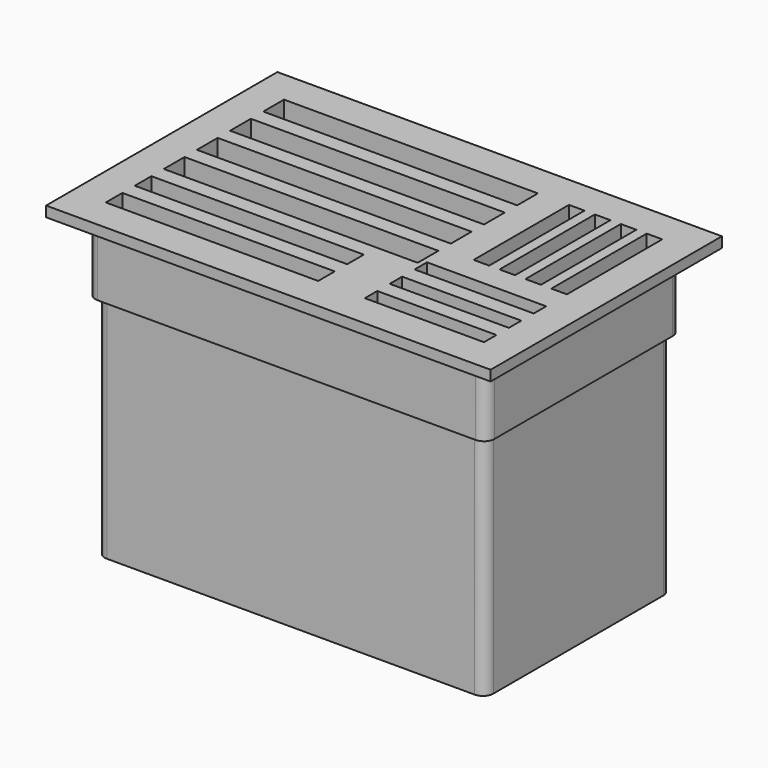
from build123d import *

# Parameters (mm, degrees)
BOX003_W     = 20.5
BOX003_H     = 2
BOX003_DEPTH = 22
BOX002_W     = 24.5
BOX002_H     = 2.5
BOX002_DEPTH = 32
BOX019_W     = 24.5
BOX019_H     = 2.5
BOX019_DEPTH = 32
BOX020_W     = 24.5
BOX020_H     = 2.5
BOX020_DEPTH = 32
BOX021_W     = 24.5
BOX021_H     = 2.5
BOX021_DEPTH = 32
BOX022_W     = 20.5
BOX022_H     = 2
BOX022_DEPTH = 22
BOX023_W     = 11.5
BOX023_H     = 1.5
BOX023_DEPTH = 15
BOX024_W     = 11.5
BOX024_H     = 1.5
BOX024_DEPTH = 15
BOX025_W     = 11.5
BOX025_H     = 1.5
BOX025_DEPTH = 15
BOX026_W     = 11.5
BOX026_H     = 1.5
BOX026_DEPTH = 15
BOX027_W     = 11.5
BOX027_H     = 1.5
BOX027_DEPTH = 15
BOX028_W     = 11.5
BOX028_H     = 1.5
BOX028_DEPTH = 15
BOX004_W     = 11.5
BOX004_H     = 1.5
BOX004_DEPTH = 15
BOX_W        = 38.5
BOX_H        = 23.5
BOX_DEPTH    = 7.9
FILLET_R     = 1
BOX001_W     = 42.9
BOX001_H     = 27.9
BOX001_DEPTH = 1
BOX029_W     = 37.5
BOX029_H     = 22.5
BOX029_DEPTH = 21.9
FILLET001_R  = 1


with BuildPart() as mini_sd:
    # Box003 → Box003 (new body)
    with BuildSketch(Plane(origin=(1.2, 1.2, 20), x_dir=(1, 0, 0), z_dir=(0, 0, 1))):
        with Locations((10.25, 1)):
            Rectangle(BOX003_W, BOX003_H)
    extrude(amount=BOX003_DEPTH)


with BuildPart() as sd:
    # Box002 → Box002 (new body)
    with BuildSketch(Plane(origin=(1.2, 20.2, 10), x_dir=(1, 0, 0), z_dir=(0, 0, 1))):
        with Locations((12.25, 1.25)):
            Rectangle(BOX002_W, BOX002_H)
    extrude(amount=BOX002_DEPTH)


with BuildPart() as sd001:
    # Box019 → Box019 (new body)
    with BuildSketch(Plane(origin=(1.2, 16.2, 10), x_dir=(1, 0, 0), z_dir=(0, 0, 1))):
        with Locations((12.25, 1.25)):
            Rectangle(BOX019_W, BOX019_H)
    extrude(amount=BOX019_DEPTH)


with BuildPart() as sd002:
    # Box020 → Box020 (new body)
    with BuildSketch(Plane(origin=(1.2, 12.2, 10), x_dir=(1, 0, 0), z_dir=(0, 0, 1))):
        with Locations((12.25, 1.25)):
            Rectangle(BOX020_W, BOX020_H)
    extrude(amount=BOX020_DEPTH)


with BuildPart() as sd003:
    # Box021 → Box021 (new body)
    with BuildSketch(Plane(origin=(1.2, 8.2, 10), x_dir=(1, 0, 0), z_dir=(0, 0, 1))):
        with Locations((12.25, 1.25)):
            Rectangle(BOX021_W, BOX021_H)
    extrude(amount=BOX021_DEPTH)


with BuildPart() as mini_sd001:
    # Box022 → Box022 (new body)
    with BuildSketch(Plane(origin=(1.2, 4.7, 20), x_dir=(1, 0, 0), z_dir=(0, 0, 1))):
        with Locations((10.25, 1)):
            Rectangle(BOX022_W, BOX022_H)
    extrude(amount=BOX022_DEPTH)


with BuildPart() as micro_sd001:
    # Box023 → Box023 (new body)
    with BuildSketch(Plane(origin=(33.7, 22.7, 26.9), x_dir=(0, -1, 0), z_dir=(0, 0, 1))):
        with Locations((5.75, 0.75)):
            Rectangle(BOX023_W, BOX023_H)
    extrude(amount=BOX023_DEPTH)


with BuildPart() as micro_sd002:
    # Box024 → Box024 (new body)
    with BuildSketch(Plane(origin=(31.2, 22.7, 26.9), x_dir=(0, -1, 0), z_dir=(0, 0, 1))):
        with Locations((5.75, 0.75)):
            Rectangle(BOX024_W, BOX024_H)
    extrude(amount=BOX024_DEPTH)


with BuildPart() as micro_sd003:
    # Box025 → Box025 (new body)
    with BuildSketch(Plane(origin=(37.7, 2.7, 26.9), x_dir=(-1, 0, 0), z_dir=(0, 0, 1))):
        with Locations((5.75, 0.75)):
            Rectangle(BOX025_W, BOX025_H)
    extrude(amount=BOX025_DEPTH)


with BuildPart() as micro_sd004:
    # Box026 → Box026 (new body)
    with BuildSketch(Plane(origin=(37.7, 5.7, 26.9), x_dir=(-1, 0, 0), z_dir=(0, 0, 1))):
        with Locations((5.75, 0.75)):
            Rectangle(BOX026_W, BOX026_H)
    extrude(amount=BOX026_DEPTH)


with BuildPart() as micro_sd005:
    # Box027 → Box027 (new body)
    with BuildSketch(Plane(origin=(37.7, 8.7, 26.9), x_dir=(-1, 0, 0), z_dir=(0, 0, 1))):
        with Locations((5.75, 0.75)):
            Rectangle(BOX027_W, BOX027_H)
    extrude(amount=BOX027_DEPTH)


with BuildPart() as micro_sd006:
    # Box028 → Box028 (new body)
    with BuildSketch(Plane(origin=(28.7, 22.7, 26.9), x_dir=(0, -1, 0), z_dir=(0, 0, 1))):
        with Locations((5.75, 0.75)):
            Rectangle(BOX028_W, BOX028_H)
    extrude(amount=BOX028_DEPTH)


with BuildPart() as fusion:
    # Box004 → Box004 (new body)
    with BuildSketch(Plane(origin=(36.2, 22.7, 26.9), x_dir=(0, -1, 0), z_dir=(0, 0, 1))):
        with Locations((5.75, 0.75)):
            Rectangle(BOX004_W, BOX004_H)
    extrude(amount=BOX004_DEPTH)

    # Fusion: union mini-sd, sd, sd001, sd002, sd003, mini-sd001, micro-sd001, micro-sd002, micro-sd003, micro-sd004, micro-sd005, micro-sd006
    add(mini_sd.part)
    add(sd.part)
    add(sd001.part)
    add(sd002.part)
    add(sd003.part)
    add(mini_sd001.part)
    add(micro_sd001.part)
    add(micro_sd002.part)
    add(micro_sd003.part)
    add(micro_sd004.part)
    add(micro_sd005.part)
    add(micro_sd006.part)


with BuildPart() as fusion_1:
    # Fusion placement: moved
    add(fusion.part.moved(Location((0, 0, 4))))


with BuildPart() as fillet_body:
    # Box → Box (new body)
    with BuildSketch(Plane(origin=(0.2, 0.2, 34), x_dir=(1, 0, 0), z_dir=(0, 0, 1))):
        with Locations((19.25, 11.75)):
            Rectangle(BOX_W, BOX_H)
    extrude(amount=BOX_DEPTH)

    # Fillet
    fillet_edges = [fillet_body.edges().sort_by_distance(p)[0] for p in [
        (0.2, 0.2, 37.95),
        (0.2, 23.7, 37.95),
        (38.7, 0.2, 37.95),
        (38.7, 23.7, 37.95),
    ]]
    fillet(fillet_edges, radius=FILLET_R)


with BuildPart() as cube001:
    # Box001 → Box001 (new body)
    with BuildSketch(Plane(origin=(-2, -2, 40.9), x_dir=(1, 0, 0), z_dir=(0, 0, 1))):
        with Locations((21.45, 13.95)):
            Rectangle(BOX001_W, BOX001_H)
    extrude(amount=BOX001_DEPTH)


with BuildPart() as cut:
    # Box029 → Box029 (new body)
    with BuildSketch(Plane(origin=(0.7, 0.7, 12), x_dir=(1, 0, 0), z_dir=(0, 0, 1))):
        with Locations((18.75, 11.25)):
            Rectangle(BOX029_W, BOX029_H)
    extrude(amount=BOX029_DEPTH)

    # Fillet001
    fillet001_edges = [cut.edges().sort_by_distance(p)[0] for p in [
        (0.7, 0.7, 22.95),
        (0.7, 23.2, 22.95),
        (38.2, 0.7, 22.95),
        (38.2, 23.2, 22.95),
    ]]
    fillet(fillet001_edges, radius=FILLET001_R)

    # Fusion001: union Fillet body, Cube001
    add(fillet_body.part)
    add(cube001.part)

    # Cut: cut Fusion
    add(fusion_1.part, mode=Mode.SUBTRACT)


solid = cut.part
